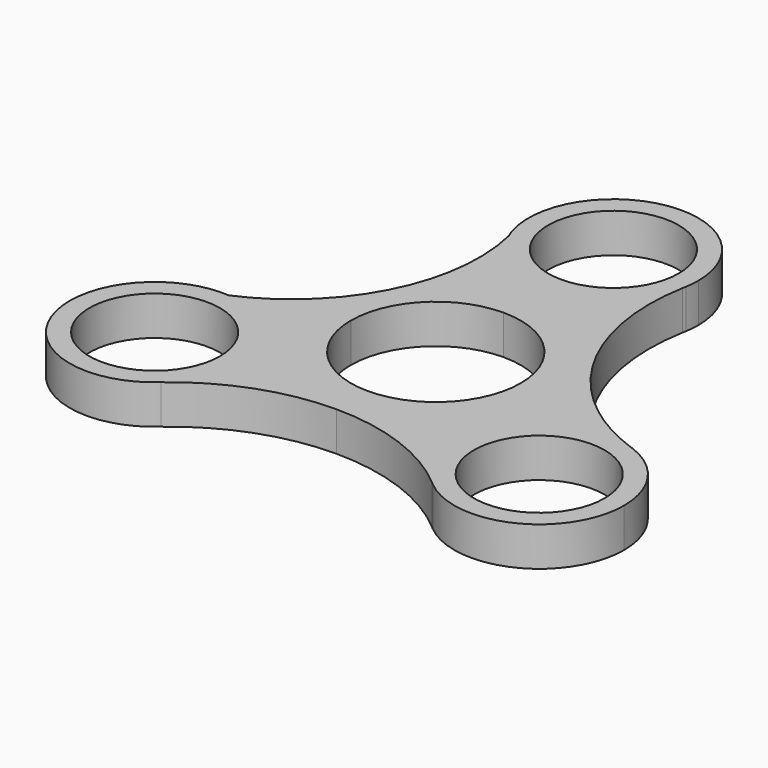
from build123d import *

# Parameters (mm, degrees)
F0_R     = 12.7
F1_DEPTH = 7.62
F2_DEPTH = 7.62


with BuildPart() as f1:
    # F0 (on Top) → F1 (new body)
    with BuildSketch(Plane.XY):
        with BuildLine():
            ThreePointArc((8.255, 28.8819205835), (12.3258453132, 13.4239085033), (21.0045894348, 0))
            Line((21.0045894348, 0), (31.6707710329, 0))
            ThreePointArc((31.6707710329, 0), (18.302822796, 17.71132227), (16.1597949126, 39.7975262922))
            ThreePointArc((16.1597949126, 39.7975262922), (13.3719170149, 33.4964089643), (8.255, 28.8819205835))
        make_face()
        with BuildLine():
            Line((31.6707710329, 0), (21.0045894348, 0))
            ThreePointArc((21.0045894348, 0), (24.8754155516, -3.865599887), (29.1399769354, -7.2919205835))
            ThreePointArc((29.1399769354, -7.2919205835), (35.694699606, -5.16778465), (42.5455662331, -5.9039702319))
            ThreePointArc((42.5455662331, -5.9039702319), (36.8834410643, -3.3659211944), (31.6707710329, 0))
        make_face()
        with BuildLine():
            ThreePointArc((-7.6549140883, 28.5518630612), (-3.9414184718, 27.1473670151), (0, 26.67))
            ThreePointArc((0, 26.67), (4.2731024346, 27.232564608), (8.255, 28.8819205835))
            ThreePointArc((8.255, 28.8819205835), (13.3719170149, 33.4964089643), (16.1597949126, 39.7975262922))
            ThreePointArc((16.1597949126, 39.7975262922), (16.2197911891, 40.1231040446), (16.2824226584, 40.44818515))
            ThreePointArc((16.2824226584, 40.44818515), (16.4530072949, 41.8093611142), (16.51, 43.18))
            ThreePointArc((16.51, 43.18), (-1.3706388858, 59.6330072949), (-16.2824226584, 40.44818515))
            ThreePointArc((-16.2824226584, 40.44818515), (-15.6803202045, 38.5821711599), (-15.17940645, 36.6864863267))
            ThreePointArc((-15.17940645, 36.6864863267), (-12.1200071176, 31.9690443106), (-7.6549140883, 28.5518630612))
        make_face()
        with BuildLine():
            ThreePointArc((12.7, 43.18), (8.9802561211, 34.1997438789), (0, 30.48))
            ThreePointArc((0, 30.48), (-8.9802561211, 52.1602561211), (12.7, 43.18))
        make_face(mode=Mode.SUBTRACT)
        with BuildLine():
            ThreePointArc((20.8849769354, -21.59), (10.7123026333, -18.0215657781), (0, -16.8117734215))
            Line((0, -16.8117734215), (0, -24.1550181674))
            ThreePointArc((0, -24.1550181674), (14.0058976618, -26.6451049511), (26.294552951, -33.8113210156))
            ThreePointArc((26.294552951, -33.8113210156), (22.2978232305, -28.2725182386), (20.8849769354, -21.59))
        make_face()
        with BuildLine():
            Line((0, -24.1550181674), (0, -16.8117734215))
            ThreePointArc((0, -16.8117734215), (-10.7123026333, -18.0215657781), (-20.8849769354, -21.59))
            ThreePointArc((-20.8849769354, -21.59), (-22.3144394795, -28.3099322944), (-26.3552967466, -33.8662193418))
            ThreePointArc((-26.3552967466, -33.8662193418), (-14.0436463009, -26.6603809258), (0, -24.1550181674))
        make_face()
        with BuildLine():
            ThreePointArc((42.5455662331, -5.9039702319), (35.694699606, -5.16778465), (29.1399769354, -7.2919205835))
            ThreePointArc((29.1399769354, -7.2919205835), (23.0968975189, -13.335), (20.8849769354, -21.59))
            ThreePointArc((20.8849769354, -21.59), (22.2978232305, -28.2725182386), (26.294552951, -33.8113210156))
            ThreePointArc((26.294552951, -33.8113210156), (26.5924895957, -34.0667694583), (26.8879445477, -34.3250842323))
            ThreePointArc((26.8879445477, -34.3250842323), (44.4344724883, -36.5240417289), (53.9049769354, -21.59))
            ThreePointArc((53.9049769354, -21.59), (50.9583797785, -12.176488258), (43.170367206, -6.1231009177))
            ThreePointArc((43.170367206, -6.1231009177), (42.8575229758, -6.0148008085), (42.5455662331, -5.9039702319))
        make_face()
        with Locations((37.3949769354, -21.59)):
            Circle(F0_R, mode=Mode.SUBTRACT)
        with BuildLine():
            ThreePointArc((-29.0972869573, -7.3166527743), (-24.7439019856, -3.8824922391), (-20.7851555545, 0))
            Line((-20.7851555545, 0), (-27.709266194, 0))
            ThreePointArc((-27.709266194, 0), (-31.7612402349, -2.8508778513), (-36.1623140389, -5.1260805947))
            ThreePointArc((-36.1623140389, -5.1260805947), (-32.505543625, -5.8206137753), (-29.0972869573, -7.3166527743))
        make_face()
        with BuildLine():
            Line((-27.709266194, 0), (-20.7851555545, 0))
            ThreePointArc((-20.7851555545, 0), (-11.9878842176, 13.2494249116), (-7.6549140883, 28.5518630612))
            ThreePointArc((-7.6549140883, 28.5518630612), (-12.1200071176, 31.9690443106), (-15.17940645, 36.6864863267))
            ThreePointArc((-15.17940645, 36.6864863267), (-16.1641114043, 16.5398413045), (-27.709266194, 0))
        make_face()
        with BuildLine():
            ThreePointArc((-26.3552967466, -33.8662193418), (-22.3144394795, -28.3099322944), (-20.8849769354, -21.59))
            ThreePointArc((-20.8849769354, -21.59), (-23.08457929, -13.3563726566), (-29.0972869573, -7.3166527743))
            ThreePointArc((-29.0972869573, -7.3166527743), (-32.505543625, -5.8206137753), (-36.1623140389, -5.1260805947))
            ThreePointArc((-36.1623140389, -5.1260805947), (-39.5193034819, -6.3893542054), (-42.9841780395, -7.3166527743))
            ThreePointArc((-42.9841780395, -7.3166527743), (-43.0814061763, -6.7205216633), (-43.170367206, -6.1231009177))
            ThreePointArc((-43.170367206, -6.1231009177), (-51.5140541737, -30.1475556055), (-26.3552967466, -33.8662193418))
        make_face()
        with Locations((-37.3949769354, -21.59)):
            Circle(F0_R, mode=Mode.SUBTRACT)
        with BuildLine():
            ThreePointArc((16.2824226584, 40.44818515), (16.2197911891, 40.1231040446), (16.1597949126, 39.7975262922))
            ThreePointArc((16.1597949126, 39.7975262922), (16.2243708497, 40.1222409295), (16.2824226584, 40.44818515))
        make_face()
        with BuildLine():
            ThreePointArc((43.170367206, -6.1231009177), (42.8590653266, -6.0104031485), (42.5455662331, -5.9039702319))
            ThreePointArc((42.5455662331, -5.9039702319), (42.8575229758, -6.0148008085), (43.170367206, -6.1231009177))
        make_face()
        with BuildLine():
            ThreePointArc((-16.2824226584, 40.44818515), (-15.8429563914, 38.5344825068), (-15.17940645, 36.6864863267))
            ThreePointArc((-15.17940645, 36.6864863267), (-15.6803202045, 38.5821711599), (-16.2824226584, 40.44818515))
        make_face()
        with BuildLine():
            ThreePointArc((26.8879445477, -34.3250842323), (26.5924895957, -34.0667694583), (26.294552951, -33.8113210156))
            ThreePointArc((26.294552951, -33.8113210156), (26.5881952277, -34.0717294123), (26.8879445477, -34.3250842323))
        make_face()
        with BuildLine():
            ThreePointArc((-42.9841780395, -7.3166527743), (-39.5193034819, -6.3893542054), (-36.1623140389, -5.1260805947))
            ThreePointArc((-36.1623140389, -5.1260805947), (-39.7204027846, -5.2445879642), (-43.170367206, -6.1231009177))
            ThreePointArc((-43.170367206, -6.1231009177), (-43.0814061763, -6.7205216633), (-42.9841780395, -7.3166527743))
        make_face()
    extrude(amount=F1_DEPTH)

    # F0 (on Top) → F2 (join)
    with BuildSketch(Plane.XY):
        with BuildLine():
            Line((0, -16.8117734215), (0, -16.51))
            ThreePointArc((0, -16.51), (-11.6743329574, -11.6743329574), (-16.51, 0))
            Line((-16.51, 0), (-20.7851555545, 0))
            ThreePointArc((-20.7851555545, 0), (-24.7439019856, -3.8824922391), (-29.0972869573, -7.3166527743))
            ThreePointArc((-29.0972869573, -7.3166527743), (-23.08457929, -13.3563726566), (-20.8849769354, -21.59))
            ThreePointArc((-20.8849769354, -21.59), (-10.7123026333, -18.0215657781), (0, -16.8117734215))
        make_face()
        with BuildLine():
            Line((21.0045894348, 0), (16.51, 0))
            ThreePointArc((16.51, 0), (11.6743329574, -11.6743329574), (0, -16.51))
            Line((0, -16.51), (0, -16.8117734215))
            ThreePointArc((0, -16.8117734215), (10.7123026333, -18.0215657781), (20.8849769354, -21.59))
            ThreePointArc((20.8849769354, -21.59), (23.0968975189, -13.335), (29.1399769354, -7.2919205835))
            ThreePointArc((29.1399769354, -7.2919205835), (24.8754155516, -3.865599887), (21.0045894348, 0))
        make_face()
        with BuildLine():
            ThreePointArc((0, 16.51), (11.6743329574, 11.6743329574), (16.51, 0))
            Line((16.51, 0), (21.0045894348, 0))
            ThreePointArc((21.0045894348, 0), (12.3258453132, 13.4239085033), (8.255, 28.8819205835))
            ThreePointArc((8.255, 28.8819205835), (4.2731024346, 27.232564608), (0, 26.67))
            Line((0, 26.67), (0, 16.51))
        make_face()
        with BuildLine():
            ThreePointArc((-16.51, 0), (-11.6743329574, 11.6743329574), (0, 16.51))
            Line((0, 16.51), (0, 26.67))
            ThreePointArc((0, 26.67), (-3.9414184718, 27.1473670151), (-7.6549140883, 28.5518630612))
            ThreePointArc((-7.6549140883, 28.5518630612), (-11.9878842176, 13.2494249116), (-20.7851555545, 0))
            Line((-20.7851555545, 0), (-16.51, 0))
        make_face()
    extrude(amount=F2_DEPTH)


solid = f1.part
